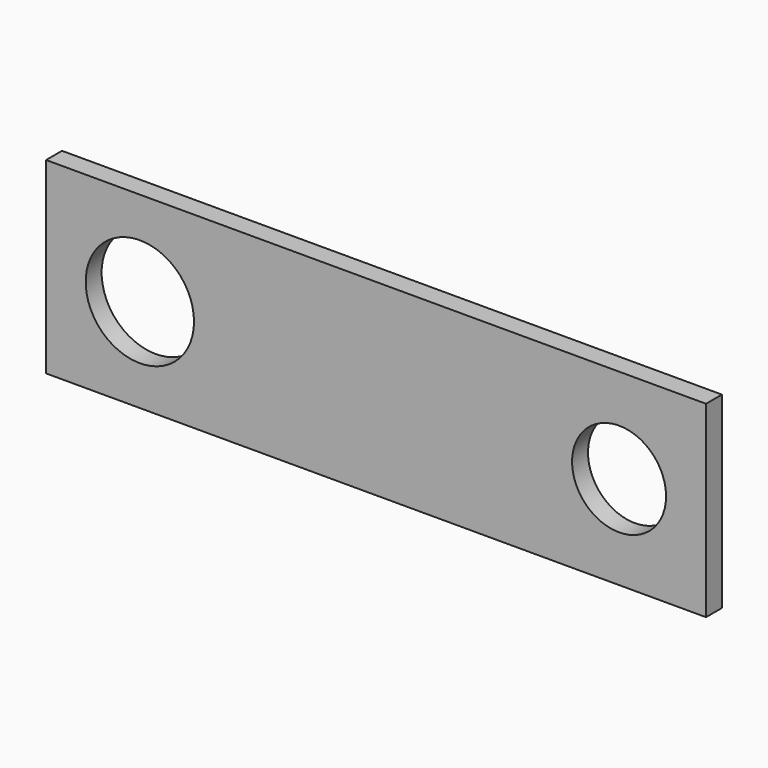
from build123d import *

# Parameters (mm, degrees)
F0_W     = 421.2336
F0_H     = 119.9388
F0_R     = 34.5694
F0_R_2   = 29.9974
F1_DEPTH = 12.7


with BuildPart() as f1:
    # F0 (on Front) → F1 (new body)
    with BuildSketch(Plane.XZ):
        with Locations((-4.53439, 5.240247)):
            Rectangle(F0_W, F0_H)
        with Locations((-155.294428, 5.024211)):
            Circle(F0_R, mode=Mode.SUBTRACT)
        with Locations((150.596465, 4.890526)):
            Circle(F0_R_2, mode=Mode.SUBTRACT)
    extrude(amount=-F1_DEPTH)


solid = f1.part
